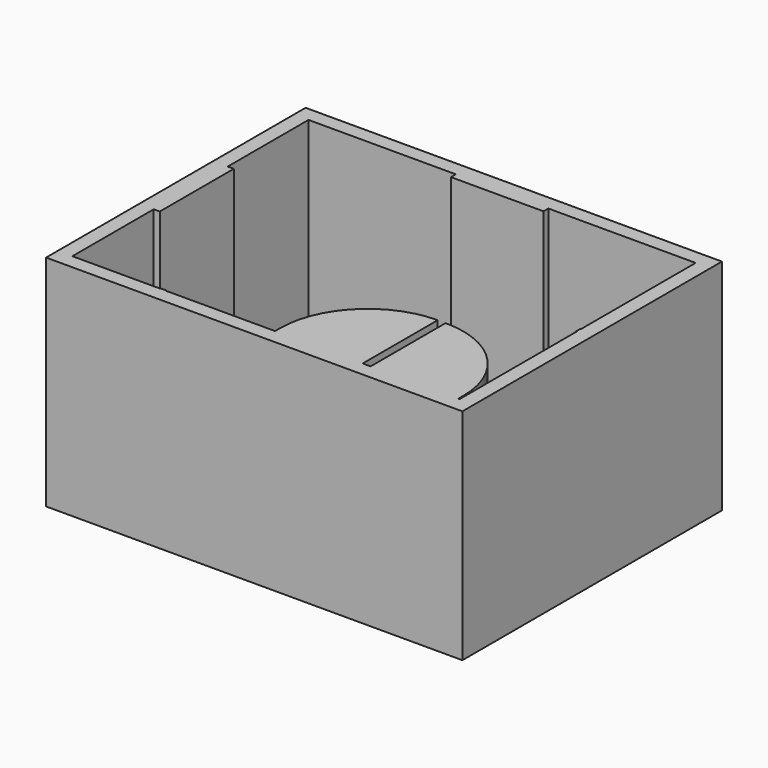
from build123d import *

# Parameters (mm, degrees)
F0_W     = 4343.4
F0_H     = 3384.55
F1_DEPTH = 2286


with BuildPart() as f1:
    # F0 (on Top) → F1 (new body)
    with BuildSketch(Plane.XY):
        Rectangle(F0_W, F0_H)
        with BuildLine():
            Line((-2019.3, 485.775), (-2019.3, 1539.875))
            Line((-2019.3, 1539.875), (-482.6, 1539.875))
            Line((-482.6, 1539.875), (-482.6, 1476.375))
            Line((-482.6, 1476.375), (482.6, 1476.375))
            Line((482.6, 1476.375), (482.6, 1539.875))
            Line((482.6, 1539.875), (2019.3, 1539.875))
            Line((2019.3, 1539.875), (2019.3, 47.625))
            Line((2019.3, 47.625), (2012.95, 47.625))
            Line((2012.95, 47.625), (2012.95, -15.875))
            Line((2012.95, -15.875), (2019.3, -15.875))
            Line((2019.3, -15.875), (2019.3, -1539.875))
            Line((2019.3, -1539.875), (2006.6, -1539.875))
            Line((2006.6, -1539.875), (2006.6, -1476.375))
            ThreePointArc((2006.6, -1476.375), (1738.778441, -829.796559), (1092.2, -561.975))
            Line((1092.2, -561.975), (1092.2, -1476.375))
            Line((1092.2, -1476.375), (1092.2, -1539.875))
            Line((1092.2, -1539.875), (1009.65, -1539.875))
            Line((1009.65, -1539.875), (1009.65, -1476.375))
            Line((1009.65, -1476.375), (1009.65, -561.975))
            ThreePointArc((1009.65, -561.975), (363.071559, -829.796559), (95.25, -1476.375))
            Line((95.25, -1476.375), (95.25, -1539.875))
            Line((95.25, -1539.875), (-1041.4, -1539.875))
            Line((-1041.4, -1539.875), (-1041.4, -1533.525))
            Line((-1041.4, -1533.525), (-1104.9, -1533.525))
            Line((-1104.9, -1533.525), (-1104.9, -1539.875))
            Line((-1104.9, -1539.875), (-2019.3, -1539.875))
            Line((-2019.3, -1539.875), (-2019.3, -479.425))
            Line((-2019.3, -479.425), (-1955.8, -479.425))
            Line((-1955.8, -479.425), (-1955.8, 485.775))
            Line((-1955.8, 485.775), (-2019.3, 485.775))
        make_face(mode=Mode.SUBTRACT)
    extrude(amount=F1_DEPTH)


solid = f1.part
